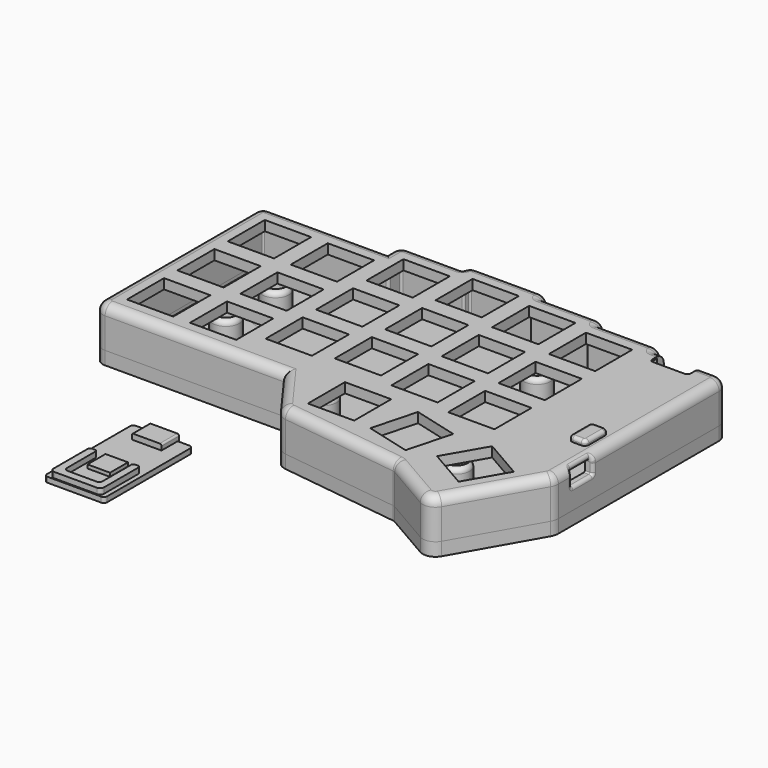
from build123d import *

# Parameters (mm, degrees)
PAD_DEPTH       = 4
POCKET_DEPTH    = 2
SKETCH119_R     = 4
PAD030_DEPTH    = 9
SKETCH118_R     = 3
POCKET028_DEPTH = 10
SKETCH120_R     = 1.9
PAD031_DEPTH    = 1.5
SKETCH121_R     = 1.39
POCKET029_DEPTH = 12.501
FILLET009_R     = 2
SKETCH125_R     = 5
POCKET030_DEPTH = 0.44
FILLET013_R     = 1.5
FILLET015_R     = 1.2
PAD028_DEPTH    = 13
POCKET021_DEPTH = 10
FILLET003_R     = 2.8
SKETCH111_W     = 14
SKETCH111_H     = 14
POCKET022_DEPTH = 3
POCKET023_DEPTH = 2.5
POCKET024_DEPTH = 2.5
POCKET025_DEPTH = 5
POCKET026_DEPTH = 5
FILLET_R        = 1
FILLET006_R     = 1
SKETCH117_R     = 1.7
POCKET027_DEPTH = 3.1
SKETCH079_R     = 3.331372
SKETCH079_R_2   = 1.7
SKETCH079_R_3   = 3.300093
SKETCH079_R_4   = 3.395712
SKETCH079_R_5   = 3.457296
PAD032_DEPTH    = 1.5
SKETCH126_R     = 1.7
POCKET031_DEPTH = 3
POCKET035_DEPTH = 5
SKETCH142_R     = 2
SKETCH142_R_2   = 1.7
POCKET036_DEPTH = 1
PAD034_DEPTH    = 1.6
SKETCH130_W     = 9
SKETCH130_H     = 6.1
POCKET032_DEPTH = 1.601
PAD035_DEPTH    = 6.6
SKETCH132_W     = 6.8
SKETCH132_H     = 6.8
PAD036_DEPTH    = 1.1
PAD037_DEPTH    = 3
SKETCH135_R     = 1.9
PAD038_DEPTH    = 0.9
SKETCH136_R     = 0.9
PAD039_DEPTH    = 4.9
FILLET011_R     = 0.2
POCKET034_DEPTH = 0.6
FILLET012_R     = 0.2
PAD040_DEPTH    = 2.5
PAD041_DEPTH    = 0.3
FILLET014_R     = 1


with BuildPart() as bottom:
    # Sketch108 → Pad (new body)
    with BuildSketch(Plane.XY.offset(8)):
        with BuildLine():
            Line((-0.575516, 59.75), (34.48, 59.75))
            Line((34.48, 59.75), (34.48, 61.417541))
            ThreePointArc((37.562459, 64.5), (35.382831, 63.597169), (34.48, 61.417541))
            Line((37.562459, 64.5), (53.574573, 64.5))
            ThreePointArc((56.476936, 66.75), (54.640757, 66.121623), (53.574573, 64.5))
            Line((56.476936, 66.75), (75.451105, 66.75))
            ThreePointArc((78.378139, 64.5), (77.297048, 66.1225), (75.451105, 66.75))
            Line((78.378139, 64.5), (94.392355, 64.5))
            ThreePointArc((97.364207, 62.25), (96.256115, 63.874052), (94.392355, 64.5))
            Line((97.364207, 62.25), (113.446584, 62.25))
            ThreePointArc((116.377091, 60), (115.293904, 61.622622), (113.446584, 62.25))
            Line((116.377091, 60), (134.174054, 60))
            ThreePointArc((137.23, 56.944054), (136.334934, 59.104934), (134.174054, 60))
            Line((137.23, 56.944054), (137.23, -3.799623))
            ThreePointArc((136.644911, -6.01003), (137.081252, -4.942889), (137.23, -3.799623))
            Line((136.644911, -6.01003), (122.927423, -30.106163))
            ThreePointArc((117.617268, -31.543823), (120.571558, -31.930167), (122.927423, -30.106163))
            Line((117.617268, -31.543823), (103.225679, -23.218082))
            ThreePointArc((103.225679, -23.218082), (102.921924, -23.080356), (102.597044, -23.004934))
            Line((102.597044, -23.004934), (66.238919, -18.276385))
            ThreePointArc((63.525255, -16.668331), (64.716751, -17.751369), (66.238919, -18.276385))
            Line((63.525255, -16.668331), (53.919223, -3.5))
            Line((53.919223, -3.5), (-0.150389, -3.5))
            ThreePointArc((-3.5, -0.150389), (-2.518922, -2.518922), (-0.150389, -3.5))
            Line((-3.5, -0.150389), (-3.5, 56.825516))
            ThreePointArc((-0.575516, 59.75), (-2.643438, 58.893438), (-3.5, 56.825516))
        make_face()
    extrude(amount=PAD_DEPTH)

    # Sketch058 (on Face28 of Pad) → Pocket (cut)
    with BuildSketch(Plane.XY.offset(12)):
        with BuildLine():
            Line((-0.575516, 57.25), (36.216867, 57.25))
            ThreePointArc((36.216867, 57.25), (36.756484, 57.473516), (36.98, 58.013133))
            Line((36.98, 58.013133), (36.98, 61.417541))
            ThreePointArc((37.562459, 62), (37.150598, 61.829402), (36.98, 61.417541))
            Line((37.562459, 62), (55.416409, 62))
            ThreePointArc((55.416409, 62), (55.814928, 62.165072), (55.98, 62.563591))
            Line((55.98, 62.563591), (55.98, 63.753064))
            ThreePointArc((56.476936, 64.25), (56.125549, 64.104451), (55.98, 63.753064))
            Line((56.476936, 64.25), (75.451105, 64.25))
            ThreePointArc((75.98, 63.721105), (75.82509, 64.09509), (75.451105, 64.25))
            Line((75.98, 63.721105), (75.98, 62.491748))
            ThreePointArc((75.98, 62.491748), (76.12403, 62.14403), (76.471748, 62))
            Line((76.471748, 62), (94.392355, 62))
            ThreePointArc((94.98, 61.412355), (94.807883, 61.827883), (94.392355, 62))
            Line((94.98, 61.412355), (94.98, 60.193253))
            ThreePointArc((94.98, 60.193253), (95.109826, 59.879826), (95.423253, 59.75))
            Line((95.423253, 59.75), (113.446584, 59.75))
            ThreePointArc((113.98, 59.216584), (113.823766, 59.593766), (113.446584, 59.75))
            Line((113.98, 59.216584), (113.98, 57.753983))
            ThreePointArc((113.98, 57.753983), (114.05439, 57.57439), (114.233983, 57.5))
            Line((114.233983, 57.5), (134.174054, 57.5))
            ThreePointArc((134.73, 56.944054), (134.567167, 57.337167), (134.174054, 57.5))
            Line((134.73, 56.944054), (134.73, -3.799623))
            ThreePointArc((134.472296, -4.7732), (134.664484, -4.303176), (134.73, -3.799623))
            Line((134.472296, -4.7732), (120.754809, -28.869334))
            ThreePointArc((118.869156, -29.379851), (119.918234, -29.517043), (120.754809, -28.869334))
            Line((118.869156, -29.379851), (104.477568, -21.05411))
            ThreePointArc((104.477568, -21.05411), (103.724696, -20.71275), (102.919466, -20.525812))
            Line((102.919466, -20.525812), (66.56134, -15.797263))
            ThreePointArc((65.544973, -15.194987), (65.991232, -15.600625), (66.56134, -15.797263))
            Line((65.544973, -15.194987), (55.506924, -1.434431))
            ThreePointArc((55.506924, -1.434431), (55.131639, -1.114841), (54.652277, -1))
            Line((54.652277, -1), (-0.150389, -1))
            ThreePointArc((-1, -0.150389), (-0.751155, -0.751155), (-0.150389, -1))
            Line((-1, -0.150389), (-1, 56.825516))
            ThreePointArc((-0.575516, 57.25), (-0.875672, 57.125672), (-1, 56.825516))
        make_face()
    extrude(amount=-POCKET_DEPTH, mode=Mode.SUBTRACT)

    # Sketch119 (on Face65 of Pocket) → Pad030 (join)
    with BuildSketch(Plane.XY.offset(10)):
        with Locations((18.610502, 37.490503)):
            Circle(SKETCH119_R)
        with Locations((18.589413, 18.74788)):
            Circle(SKETCH119_R)
        with Locations((61.833103, 1.49994)):
            Circle(SKETCH119_R)
        with Locations((108.311136, -6.255085)):
            Circle(SKETCH119_R)
        with Locations((94.543887, 41.486972)):
            Circle(SKETCH119_R)
    extrude(amount=PAD030_DEPTH)

    # Sketch118 (on Face4 of Pad030) → Pocket028 (cut)
    with BuildSketch(Plane.XY.offset(8)):
        with Locations((18.610502, 37.490503)):
            Circle(SKETCH118_R)
        with Locations((18.589413, 18.74788)):
            Circle(SKETCH118_R)
        with Locations((61.833103, 1.49994)):
            Circle(SKETCH118_R)
        with Locations((108.311136, -6.255085)):
            Circle(SKETCH118_R)
        with Locations((94.543887, 41.486972)):
            Circle(SKETCH118_R)
    extrude(amount=POCKET028_DEPTH, mode=Mode.SUBTRACT)

    # Sketch120 (on Face83 of Pocket028) → Pad031 (join)
    with BuildSketch(Plane.XY.offset(19)):
        with Locations((18.589413, 18.74788)):
            Circle(SKETCH120_R)
        with Locations((18.610502, 37.490503)):
            Circle(SKETCH120_R)
        with Locations((94.543887, 41.486972)):
            Circle(SKETCH120_R)
        with Locations((108.311136, -6.255085)):
            Circle(SKETCH120_R)
        with Locations((61.833103, 1.49994)):
            Circle(SKETCH120_R)
    extrude(amount=PAD031_DEPTH)

    # Sketch121 (on Face94 of Pad031) → Pocket029 (cut, through all)
    with BuildSketch(Plane.XY.offset(20.5)):
        with Locations((18.610502, 37.490503)):
            Circle(SKETCH121_R)
        with Locations((18.589413, 18.74788)):
            Circle(SKETCH121_R)
        with Locations((94.543887, 41.486972)):
            Circle(SKETCH121_R)
        with Locations((61.833103, 1.49994)):
            Circle(SKETCH121_R)
        with Locations((108.311136, -6.255085)):
            Circle(SKETCH121_R)
    extrude(amount=-POCKET029_DEPTH, mode=Mode.SUBTRACT)

    # Fillet009
    fillet009_edges = [bottom.edges().sort_by_distance(p)[0] for p in [
        (14.589413, 18.74788, 10),
        (90.543887, 41.486972, 10),
        (57.833103, 1.49994, 10),
        (104.311136, -6.255085, 10),
        (14.610502, 37.490503, 10),
    ]]
    fillet(fillet009_edges, radius=FILLET009_R)

    # Sketch125 (on Face4 of Pocket029) → Pocket030 (cut)
    with BuildSketch(Plane(origin=(0, 0, 8), x_dir=(1, 0, 0), z_dir=(0, 0, -1))):
        with Locations((5.419504, -5.470643)):
            Circle(SKETCH125_R)
        with Locations((5.419504, -50.996956)):
            Circle(SKETCH125_R)
        with Locations((69.720607, -25.963334)):
            Circle(SKETCH125_R)
        with Locations((115.074272, 17.04775)):
            Circle(SKETCH125_R)
        with Locations((123.885826, -50.017891)):
            Circle(SKETCH125_R)
    extrude(amount=-POCKET030_DEPTH, mode=Mode.SUBTRACT)

    # Fillet013
    fillet013_edges = [bottom.edges().sort_by_distance(p)[0] for p in [
        (14.589413, 18.74788, 19),
        (57.833103, 1.49994, 19),
        (14.610502, 37.490503, 19),
        (104.311136, -6.255085, 19),
        (90.543887, 41.486972, 19),
    ]]
    fillet(fillet013_edges, radius=FILLET013_R)

    # Fillet015
    fillet015_edges = [bottom.edges().sort_by_distance(p)[0] for p in [
        (91.543887, 41.486972, 8),
        (15.610502, 37.490503, 8),
        (15.589413, 18.74788, 8),
        (58.833103, 1.49994, 8),
        (105.311136, -6.255085, 8),
    ]]
    fillet(fillet015_edges, radius=FILLET015_R)


with BuildPart() as bottom_1:
    # Body007 placement: moved
    add(bottom.part.moved(Location((0, 0, -3))))


with BuildPart() as top:
    # Sketch110 → Pad028 (new body)
    with BuildSketch(Plane.XY.offset(8)):
        with BuildLine():
            Line((-0.575516, 59.75), (34.48, 59.75))
            Line((34.48, 59.75), (34.48, 61.417541))
            ThreePointArc((37.562459, 64.5), (35.382831, 63.597169), (34.48, 61.417541))
            Line((37.562459, 64.5), (53.574573, 64.5))
            ThreePointArc((56.476936, 66.75), (54.640757, 66.121623), (53.574573, 64.5))
            Line((56.476936, 66.75), (75.451105, 66.75))
            ThreePointArc((78.378139, 64.5), (77.297048, 66.1225), (75.451105, 66.75))
            Line((78.378139, 64.5), (94.392355, 64.5))
            ThreePointArc((97.364207, 62.25), (96.256115, 63.874052), (94.392355, 64.5))
            Line((97.364207, 62.25), (113.446584, 62.25))
            ThreePointArc((116.377091, 60), (115.293904, 61.622622), (113.446584, 62.25))
            Line((116.377091, 60), (134.174054, 60))
            ThreePointArc((137.23, 56.944054), (136.334934, 59.104934), (134.174054, 60))
            Line((137.23, 56.944054), (137.23, -3.799623))
            ThreePointArc((136.644911, -6.01003), (137.081252, -4.942889), (137.23, -3.799623))
            Line((136.644911, -6.01003), (122.927423, -30.106163))
            ThreePointArc((117.617268, -31.543823), (120.571558, -31.930167), (122.927423, -30.106163))
            Line((117.617268, -31.543823), (103.225679, -23.218082))
            ThreePointArc((103.225679, -23.218082), (102.921924, -23.080356), (102.597044, -23.004934))
            Line((102.597044, -23.004934), (66.238919, -18.276385))
            ThreePointArc((63.525255, -16.668331), (64.716751, -17.751369), (66.238919, -18.276385))
            Line((63.525255, -16.668331), (53.919223, -3.5))
            Line((53.919223, -3.5), (-0.150389, -3.5))
            ThreePointArc((-3.5, -0.150389), (-2.518922, -2.518922), (-0.150389, -3.5))
            Line((-3.5, -0.150389), (-3.5, 56.825516))
            ThreePointArc((-0.575516, 59.75), (-2.643438, 58.893438), (-3.5, 56.825516))
        make_face()
    extrude(amount=PAD028_DEPTH)

    # Sketch109 (on Face28 of Pad028) → Pocket021 (cut)
    with BuildSketch(Plane.XY.offset(8)):
        with BuildLine():
            Line((-0.575516, 57.25), (36.216867, 57.25))
            ThreePointArc((36.216867, 57.25), (36.756484, 57.473516), (36.98, 58.013133))
            Line((36.98, 58.013133), (36.98, 61.417541))
            ThreePointArc((37.562459, 62), (37.150598, 61.829402), (36.98, 61.417541))
            Line((37.562459, 62), (55.416409, 62))
            ThreePointArc((55.416409, 62), (55.814928, 62.165072), (55.98, 62.563591))
            Line((55.98, 62.563591), (55.98, 63.753064))
            ThreePointArc((56.476936, 64.25), (56.125549, 64.104451), (55.98, 63.753064))
            Line((56.476936, 64.25), (75.451105, 64.25))
            ThreePointArc((75.98, 63.721105), (75.82509, 64.09509), (75.451105, 64.25))
            Line((75.98, 63.721105), (75.98, 62.491748))
            ThreePointArc((75.98, 62.491748), (76.12403, 62.14403), (76.471748, 62))
            Line((76.471748, 62), (94.392355, 62))
            ThreePointArc((94.98, 61.412355), (94.807883, 61.827883), (94.392355, 62))
            Line((94.98, 61.412355), (94.98, 60.193253))
            ThreePointArc((94.98, 60.193253), (95.109826, 59.879826), (95.423253, 59.75))
            Line((95.423253, 59.75), (113.446584, 59.75))
            ThreePointArc((113.98, 59.216584), (113.823766, 59.593766), (113.446584, 59.75))
            Line((113.98, 59.216584), (113.98, 57.753983))
            ThreePointArc((113.98, 57.753983), (114.05439, 57.57439), (114.233983, 57.5))
            Line((114.233983, 57.5), (134.174054, 57.5))
            ThreePointArc((134.73, 56.944054), (134.567167, 57.337167), (134.174054, 57.5))
            Line((134.73, 56.944054), (134.73, -3.799623))
            ThreePointArc((134.472296, -4.7732), (134.664484, -4.303176), (134.73, -3.799623))
            Line((134.472296, -4.7732), (120.754809, -28.869334))
            ThreePointArc((118.869156, -29.379851), (119.918234, -29.517043), (120.754809, -28.869334))
            Line((118.869156, -29.379851), (104.477568, -21.05411))
            ThreePointArc((104.477568, -21.05411), (103.724696, -20.71275), (102.919466, -20.525812))
            Line((102.919466, -20.525812), (66.56134, -15.797263))
            ThreePointArc((65.544973, -15.194987), (65.991232, -15.600625), (66.56134, -15.797263))
            Line((65.544973, -15.194987), (55.506924, -1.434431))
            ThreePointArc((55.506924, -1.434431), (55.131639, -1.114841), (54.652277, -1))
            Line((54.652277, -1), (-0.150389, -1))
            ThreePointArc((-1, -0.150389), (-0.751155, -0.751155), (-0.150389, -1))
            Line((-1, -0.150389), (-1, 56.825516))
            ThreePointArc((-0.575516, 57.25), (-0.875672, 57.125672), (-1, 56.825516))
        make_face()
    extrude(amount=POCKET021_DEPTH, mode=Mode.SUBTRACT)

    # Fillet003
    fillet003_edges = [top.edges().sort_by_distance(p)[0] for p in [
        (26.884417, -3.5, 21),
        (-2.518922, -2.518922, 21),
        (-3.5, 28.337563, 21),
        (58.722239, -10.084165, 21),
        (64.716751, -17.751369, 21),
        (84.417981, -20.640659, 21),
        (102.921924, -23.080356, 21),
        (110.421473, -27.380952, 21),
        (120.571558, -31.930167, 21),
        (129.786167, -18.058096, 21),
        (137.081252, -4.942889, 21),
        (137.23, 26.572216, 21),
        (136.334934, 59.104934, 21),
        (125.275573, 60, 21),
        (115.293904, 61.622622, 21),
        (105.405395, 62.25, 21),
        (96.256115, 63.874052, 21),
        (86.385247, 64.5, 21),
        (77.297048, 66.1225, 21),
        (65.964021, 66.75, 21),
        (54.640757, 66.121623, 21),
        (45.568516, 64.5, 21),
        (35.382831, 63.597169, 21),
        (34.48, 60.58377, 21),
        (16.952242, 59.75, 21),
        (-2.643438, 58.893438, 21),
    ]]
    fillet(fillet003_edges, radius=FILLET003_R)

    # Sketch111 (on Face8 of Fillet003) → Pocket022 (cut)
    with BuildSketch(Plane.XY.offset(21)):
        with Locations((75.62, -5.79)):
            Rectangle(SKETCH111_W, SKETCH111_H)
        Polygon((91.629303, 0.089303), (105.156052, -3.52), (101.546749, -17.046749), (88.02, -13.437445), align=None)
        Polygon((116.274632, -2.66), (128.398988, -9.66), (121.398988, -21.784355), (109.276749, -14.785577), align=None)
        with Locations((9.02, 47.16)):
            Rectangle(SKETCH111_W, SKETCH111_H)
        with Locations((9.02, 9.06)):
            Rectangle(SKETCH111_W, SKETCH111_H)
        with Locations((28.07, 47.16)):
            Rectangle(SKETCH111_W, SKETCH111_H)
        with Locations((28.07, 9.06)):
            Rectangle(SKETCH111_W, SKETCH111_H)
        with Locations((9.02, 28.11)):
            Rectangle(SKETCH111_W, SKETCH111_H)
        with Locations((47.12, 51.97)):
            Rectangle(SKETCH111_W, SKETCH111_H)
        with Locations((47.12, 13.87)):
            Rectangle(SKETCH111_W, SKETCH111_H)
        with Locations((66.17, 54.27)):
            Rectangle(SKETCH111_W, SKETCH111_H)
        with Locations((66.17, 16.17)):
            Rectangle(SKETCH111_W, SKETCH111_H)
        with Locations((85.22, 51.87)):
            Rectangle(SKETCH111_W, SKETCH111_H)
        with Locations((85.22, 13.77)):
            Rectangle(SKETCH111_W, SKETCH111_H)
        with Locations((104.27, 49.54)):
            Rectangle(SKETCH111_W, SKETCH111_H)
        with Locations((47.12, 32.92)):
            Rectangle(SKETCH111_W, SKETCH111_H)
        with Locations((66.17, 35.22)):
            Rectangle(SKETCH111_W, SKETCH111_H)
        with Locations((28.07, 28.11)):
            Rectangle(SKETCH111_W, SKETCH111_H)
        with Locations((104.27, 30.49)):
            Rectangle(SKETCH111_W, SKETCH111_H)
        with Locations((104.27, 11.44)):
            Rectangle(SKETCH111_W, SKETCH111_H)
        with Locations((85.22, 32.82)):
            Rectangle(SKETCH111_W, SKETCH111_H)
    extrude(amount=-POCKET022_DEPTH, mode=Mode.SUBTRACT)

    # Sketch114 (on Face31 of Pocket022) → Pocket023 (cut)
    with BuildSketch(Plane(origin=(137.23, 0, 8), x_dir=(0, 1, 0), z_dir=(1, 0, 0))):
        with BuildLine():
            Line((1.24469, 10.438636), (1.24469, 7.69946))
            ThreePointArc((1.24469, 7.69946), (1.361847, 7.416618), (1.64469, 7.29946))
            Line((1.64469, 7.29946), (8.89469, 7.29946))
            ThreePointArc((8.89469, 7.29946), (9.177533, 7.416618), (9.29469, 7.69946))
            Line((9.29469, 10.438636), (9.29469, 7.69946))
            ThreePointArc((9.29469, 10.438636), (9.177533, 10.721479), (8.89469, 10.838636))
            Line((1.64469, 10.838636), (8.89469, 10.838636))
            ThreePointArc((1.64469, 10.838636), (1.361847, 10.721479), (1.24469, 10.438636))
        make_face()
    extrude(amount=-POCKET023_DEPTH, mode=Mode.SUBTRACT)

    # Sketch115 (on Face184 of Pocket023) → Pocket024 (cut)
    with BuildSketch(Plane(origin=(0, 0, 18), x_dir=(1, 0, 0), z_dir=(0, 0, -1))):
        with BuildLine():
            ThreePointArc((134.174054, -57.5), (134.567167, -57.337167), (134.73, -56.944054))
            Line((134.73, -1.229511), (134.73, -56.944054))
            ThreePointArc((134.73, -1.229511), (120.699206, -7.153829), (114.919113, -21.244651))
            Line((114.919113, -21.244651), (114.919113, -57.5))
            Line((114.919113, -57.5), (134.174054, -57.5))
        make_face()
    extrude(amount=-POCKET024_DEPTH, mode=Mode.SUBTRACT)

    # Sketch116 (on Face28 of Pocket024) → Pocket025 (cut)
    with BuildSketch(Plane(origin=(0, 60, 8), x_dir=(-1, 0, 0), z_dir=(0, 1, 0))):
        with BuildLine():
            Line((-129.964948, 12.045402), (-119.170193, 12.045402))
            ThreePointArc((-118.364948, 11.240157), (-118.600799, 11.809551), (-119.170193, 12.045402))
            Line((-118.364948, 11.240157), (-118.364948, 7.850647))
            ThreePointArc((-119.170193, 7.045402), (-118.600799, 7.281253), (-118.364948, 7.850647))
            Line((-119.170193, 7.045402), (-128.964948, 7.045402))
            ThreePointArc((-129.964948, 8.045402), (-129.672055, 7.338295), (-128.964948, 7.045402))
            Line((-129.964948, 8.045402), (-129.964948, 12.045402))
        make_face()
    extrude(amount=-POCKET025_DEPTH, mode=Mode.SUBTRACT)

    # Sketch (on Face8 of Pocket025) → Pocket026 (cut)
    with BuildSketch(Plane.XY.offset(21)):
        with BuildLine():
            Line((132.567991, 18.705294), (129.668313, 18.705294))
            ThreePointArc((129.668313, 18.705294), (129.102628, 18.470979), (128.868313, 17.905294))
            Line((128.868313, 17.905294), (128.868313, 12.505294))
            ThreePointArc((128.868313, 12.505294), (129.102628, 11.939609), (129.668313, 11.705294))
            Line((132.567991, 11.705294), (129.668313, 11.705294))
            ThreePointArc((132.567991, 11.705294), (133.133676, 11.939609), (133.367991, 12.505294))
            Line((133.367991, 17.905294), (133.367991, 12.505294))
            ThreePointArc((133.367991, 17.905294), (133.133676, 18.470979), (132.567991, 18.705294))
        make_face()
    extrude(amount=-POCKET026_DEPTH, mode=Mode.SUBTRACT)

    # Fillet
    fillet_edges = [top.edges().sort_by_distance(p)[0] for p in [
        (84.417981, -20.640659, 8),
        (102.921924, -23.080356, 8),
        (110.421473, -27.380952, 8),
        (120.571558, -31.930167, 8),
        (129.786167, -18.058096, 8),
        (137.081252, -4.942889, 8),
        (137.23, 26.572216, 8),
        (136.334934, 59.104934, 8),
        (125.275573, 60, 8),
        (115.293904, 61.622622, 8),
        (105.405395, 62.25, 8),
        (96.256115, 63.874052, 8),
        (86.385247, 64.5, 8),
        (77.297048, 66.1225, 8),
        (65.964021, 66.75, 8),
        (54.640757, 66.121623, 8),
        (45.568516, 64.5, 8),
        (35.382831, 63.597169, 8),
        (34.48, 60.58377, 8),
        (16.952242, 59.75, 8),
        (-2.643438, 58.893438, 8),
        (-3.5, 28.337563, 8),
        (-2.518922, -2.518922, 8),
        (26.884417, -3.5, 8),
        (58.722239, -10.084165, 8),
        (64.716751, -17.751369, 8),
    ]]
    fillet(fillet_edges, radius=FILLET_R)

    # Fillet006
    fillet006_edges = [top.edges().sort_by_distance(p)[0] for p in [
        (137.23, 5.26969, 15.29946),
    ]]
    fillet(fillet006_edges, radius=FILLET006_R)

    # Sketch117 → Pocket027 (cut)
    with BuildSketch(Plane(origin=(-3.5, 0, 8), x_dir=(0, -1, 0), z_dir=(-1, 0, 0))):
        with Locations((18.6, -18.76)):
            Circle(SKETCH117_R)
        with Locations((18.61, -37.509997)):
            Circle(SKETCH117_R)
        with Locations((94.55, -41.5)):
            Circle(SKETCH117_R)
        with Locations((61.84, -1.51)):
            Circle(SKETCH117_R)
        with Locations((108.3, 6.24)):
            Circle(SKETCH117_R)
    extrude(amount=-POCKET027_DEPTH, mode=Mode.SUBTRACT)

    # Sketch079 (on Face180 of Pocket027) → Pad032 (join)
    with BuildSketch(Plane(origin=(0, 0, 18), x_dir=(1, 0, 0), z_dir=(0, 0, -1))):
        with Locations((18.6, -18.76)):
            Circle(SKETCH079_R)
        with Locations((18.6, -18.76)):
            Circle(SKETCH079_R_2, mode=Mode.SUBTRACT)
        with Locations((18.61, -37.509997)):
            Circle(SKETCH079_R_3)
        with Locations((18.61, -37.509997)):
            Circle(SKETCH079_R_2, mode=Mode.SUBTRACT)
        with Locations((61.84, -1.51)):
            Circle(SKETCH079_R_4)
        with Locations((61.84, -1.51)):
            Circle(SKETCH079_R_2, mode=Mode.SUBTRACT)
        with Locations((108.3, 6.24)):
            Circle(SKETCH079_R_5)
        with Locations((108.3, 6.24)):
            Circle(SKETCH079_R_2, mode=Mode.SUBTRACT)
        with BuildLine():
            ThreePointArc((97.772053, -42.54), (96.354244, -38.635051), (92.22, -39.043513))
            Line((92.22, -39.043513), (92.22, -39.820001))
            Line((91.61047, -39.820001), (92.22, -39.820001))
            ThreePointArc((91.61047, -39.820001), (92.699249, -44.333867), (97.269999, -43.516144))
            Line((97.269999, -42.54), (97.269999, -43.516144))
            Line((97.772053, -42.54), (97.269999, -42.54))
        make_face()
        with Locations((94.55, -41.5)):
            Circle(SKETCH079_R_2, mode=Mode.SUBTRACT)
    extrude(amount=PAD032_DEPTH)

    # Sketch126 (on Face259 of Pad032) → Pocket031 (cut)
    with BuildSketch(Plane(origin=(0, 0, 16.5), x_dir=(1, 0, 0), z_dir=(0, 0, -1))):
        with Locations((94.55, -41.5)):
            Circle(SKETCH126_R)
        with Locations((18.61, -37.509997)):
            Circle(SKETCH126_R)
        with Locations((18.6, -18.76)):
            Circle(SKETCH126_R)
        with Locations((61.84, -1.51)):
            Circle(SKETCH126_R)
        with Locations((108.3, 6.24)):
            Circle(SKETCH126_R)
    extrude(amount=-POCKET031_DEPTH, mode=Mode.SUBTRACT)

    # Sketch141 → Pocket035 (cut)
    with BuildSketch(Plane.XY.offset(21)):
        with BuildLine():
            Line((118.050286, 60), (118.050286, 55.686665))
            ThreePointArc((118.050286, 55.686665), (118.34318, 54.979559), (119.050286, 54.686665))
            Line((119.050286, 54.686665), (128.650286, 54.686665))
            ThreePointArc((128.650286, 54.686665), (129.357393, 54.979559), (129.650286, 55.686665))
            Line((129.650286, 55.686665), (129.650286, 60))
            Line((129.650286, 60), (118.050286, 60))
        make_face()
    extrude(amount=-POCKET035_DEPTH, mode=Mode.SUBTRACT)

    # Sketch142 (on Face264 of Pocket035) → Pocket036 (cut)
    with BuildSketch(Plane(origin=(0, 0, 16.5), x_dir=(1, 0, 0), z_dir=(0, 0, -1))):
        with Locations((94.55, -41.5)):
            Circle(SKETCH142_R)
        with Locations((18.6, -18.76)):
            Circle(SKETCH142_R)
        with Locations((18.61, -37.509997)):
            Circle(SKETCH142_R)
        with Locations((61.84, -1.51)):
            Circle(SKETCH142_R)
        with Locations((108.3, 6.24)):
            Circle(SKETCH142_R)
        with Locations((108.3, 6.24)):
            Circle(SKETCH142_R_2, mode=Mode.SUBTRACT)
    extrude(amount=-POCKET036_DEPTH, mode=Mode.SUBTRACT)


with BuildPart() as obj1:
    # Sketch128 → Pad034 (new body)
    with BuildSketch(Plane.XY):
        with BuildLine():
            Line((20.774644, -17.988873), (36.974644, -17.988873))
            ThreePointArc((37.974644, -18.988873), (37.681751, -18.281766), (36.974644, -17.988873))
            Line((37.974644, -18.988873), (37.974644, -50.388873))
            ThreePointArc((36.974644, -51.388873), (37.681751, -51.095979), (37.974644, -50.388873))
            Line((36.974644, -51.388873), (20.774644, -51.388873))
            ThreePointArc((19.774644, -50.388873), (20.067537, -51.095979), (20.774644, -51.388873))
            Line((19.774644, -50.388873), (19.774644, -18.988873))
            ThreePointArc((20.774644, -17.988873), (20.067537, -18.281766), (19.774644, -18.988873))
        make_face()
    extrude(amount=PAD034_DEPTH)

    # Sketch130 (on Face9 of Pad034) → Pocket032 (cut, through all)
    with BuildSketch(Plane(origin=(0, 0, 0), x_dir=(1, 0, 0), z_dir=(0, 0, -1))):
        with Locations((28.874644, 21.038873)):
            Rectangle(SKETCH130_W, SKETCH130_H)
    extrude(amount=-POCKET032_DEPTH, mode=Mode.SUBTRACT)

    # Sketch131 (on Face9 of Pocket032) → Pad035 (join)
    with BuildSketch(Plane(origin=(0, -24.088873, 0), x_dir=(-1, 0, 0), z_dir=(0, 1, 0))):
        with BuildLine():
            ThreePointArc((-33.374644, 0.524237), (-33.221099, 0.153545), (-32.850407, 0))
            Line((-24.898881, 0), (-32.850407, 0))
            ThreePointArc((-24.898881, 0), (-24.528189, 0.153545), (-24.374644, 0.524237))
            Line((-24.374644, 2.775763), (-24.374644, 0.524237))
            ThreePointArc((-24.374644, 2.775763), (-24.528189, 3.146455), (-24.898881, 3.3))
            Line((-32.850407, 3.3), (-24.898881, 3.3))
            ThreePointArc((-32.850407, 3.3), (-33.221099, 3.146455), (-33.374644, 2.775763))
            Line((-33.374644, 0.524237), (-33.374644, 2.775763))
        make_face()
    extrude(amount=PAD035_DEPTH)

    # Sketch132 (on Face5 of Pad035) → Pad036 (join)
    with BuildSketch(Plane.XY.offset(1.6)):
        with Locations((28.874644, -38.788873)):
            Rectangle(SKETCH132_W, SKETCH132_H)
    extrude(amount=PAD036_DEPTH)

    # Sketch133 (on Face29 of Pad036) → Pad037 (join)
    with BuildSketch(Plane.XY.offset(3.3)):
        with BuildLine():
            Line((21.256197, -49.832661), (21.256197, -36.914709))
            ThreePointArc((22.031635, -36.139271), (21.483318, -36.366392), (21.256197, -36.914709))
            Line((22.031635, -36.139271), (22.865667, -36.139271))
            ThreePointArc((23.536118, -36.809722), (23.339747, -36.335642), (22.865667, -36.139271))
            Line((23.536118, -47.50549), (23.536118, -36.809722))
            ThreePointArc((23.536118, -47.50549), (23.865303, -48.300214), (24.660027, -48.629399))
            Line((24.660027, -48.629399), (33.435584, -48.629399))
            ThreePointArc((33.435584, -48.629399), (34.090634, -48.358069), (34.361964, -47.703019))
            Line((34.361964, -36.770086), (34.361964, -47.703019))
            ThreePointArc((34.992779, -36.139271), (34.546725, -36.324032), (34.361964, -36.770086))
            Line((34.992779, -36.139271), (35.987766, -36.139271))
            ThreePointArc((36.582035, -36.73354), (36.407978, -36.313328), (35.987766, -36.139271))
            Line((36.582035, -36.73354), (36.582035, -49.818855))
            ThreePointArc((35.39258, -51.00831), (36.233652, -50.659927), (36.582035, -49.818855))
            Line((22.431846, -51.00831), (35.39258, -51.00831))
            ThreePointArc((21.256197, -49.832661), (21.600537, -50.66397), (22.431846, -51.00831))
        make_face()
    extrude(amount=-PAD037_DEPTH)


with BuildPart() as tornillo:
    # Sketch135 → Pad038 (new body)
    with BuildSketch(Plane.XY):
        with Locations((-60.981449, 52.607174)):
            Circle(SKETCH135_R)
    extrude(amount=PAD038_DEPTH)

    # Sketch136 (on Face3 of Pad038) → Pad039 (join)
    with BuildSketch(Plane.XY.offset(0.9)):
        with Locations((-60.981449, 52.607174)):
            Circle(SKETCH136_R)
    extrude(amount=PAD039_DEPTH)

    # Fillet011
    fillet011_edges = [tornillo.edges().sort_by_distance(p)[0] for p in [
        (-62.881449, 52.607174, 0.9),
        (-62.881449, 52.607174, 0),
    ]]
    fillet(fillet011_edges, radius=FILLET011_R)

    # Sketch137 (on Face4 of Fillet011) → Pocket034 (cut)
    with BuildSketch(Plane(origin=(0, 0, 0), x_dir=(1, 0, 0), z_dir=(0, 0, -1))):
        Polygon((-60.255833, -53.116116), (-60.177884, -52.233243), (-60.9035, -51.724301), (-61.707065, -52.098232), (-61.785014, -52.981105), (-61.059398, -53.490047), align=None)
    extrude(amount=-POCKET034_DEPTH, mode=Mode.SUBTRACT)

    # Fillet012
    fillet012_edges = [tornillo.edges().sort_by_distance(p)[0] for p in [
        (-61.881449, 52.607174, 5.8),
    ]]
    fillet(fillet012_edges, radius=FILLET012_R)


with BuildPart() as tornillo_1:
    # Body010 placement: moved
    add(tornillo.part.moved(Location((79.6, -15.1, 13.4))))


with BuildPart() as obj2:
    # Sketch138 → Pad040 (new body)
    with BuildSketch(Plane.XY):
        with BuildLine():
            ThreePointArc((129.871334, 19.392166), (128.963965, 19.016321), (128.58812, 18.108952))
            Line((128.58812, 12.101815), (128.58812, 18.108952))
            ThreePointArc((128.58812, 12.101815), (128.963965, 11.194446), (129.871334, 10.818601))
            Line((132.437763, 10.818601), (129.871334, 10.818601))
            ThreePointArc((132.437763, 10.818601), (133.345133, 11.194446), (133.720978, 12.101815))
            Line((133.720978, 18.108952), (133.720978, 12.101815))
            ThreePointArc((133.720978, 18.108952), (133.345133, 19.016321), (132.437763, 19.392166))
            Line((129.871334, 19.392166), (132.437763, 19.392166))
        make_face()
    extrude(amount=PAD040_DEPTH)

    # Sketch139 → Pad041 (join)
    with BuildSketch(Plane.XY):
        with BuildLine():
            Line((131.672638, 19.931404), (126.887237, 19.931404))
            ThreePointArc((126.887237, 19.931404), (126.382397, 19.722293), (126.173286, 19.217453))
            Line((126.173286, 19.217453), (126.173286, 10.989182))
            ThreePointArc((126.173286, 10.989182), (126.365039, 10.526251), (126.82797, 10.334498))
            Line((126.82797, 10.334498), (131.741671, 10.334498))
            ThreePointArc((131.741671, 10.334498), (132.16911, 10.511549), (132.346161, 10.938988))
            Line((132.346161, 10.938988), (132.346161, 19.257881))
            ThreePointArc((132.346161, 19.257881), (132.148891, 19.734134), (131.672638, 19.931404))
        make_face()
    extrude(amount=PAD041_DEPTH)

    # Fillet014
    fillet014_edges = [obj2.edges().sort_by_distance(p)[0] for p in [
        (128.58812, 15.105384, 2.5),
    ]]
    fillet(fillet014_edges, radius=FILLET014_R)


with BuildPart() as obj2_1:
    # Body011 placement: moved
    add(obj2.part.moved(Location((0, 0, 20))))


solid = Compound([bottom_1.part, top.part, obj1.part, tornillo_1.part, obj2_1.part])
